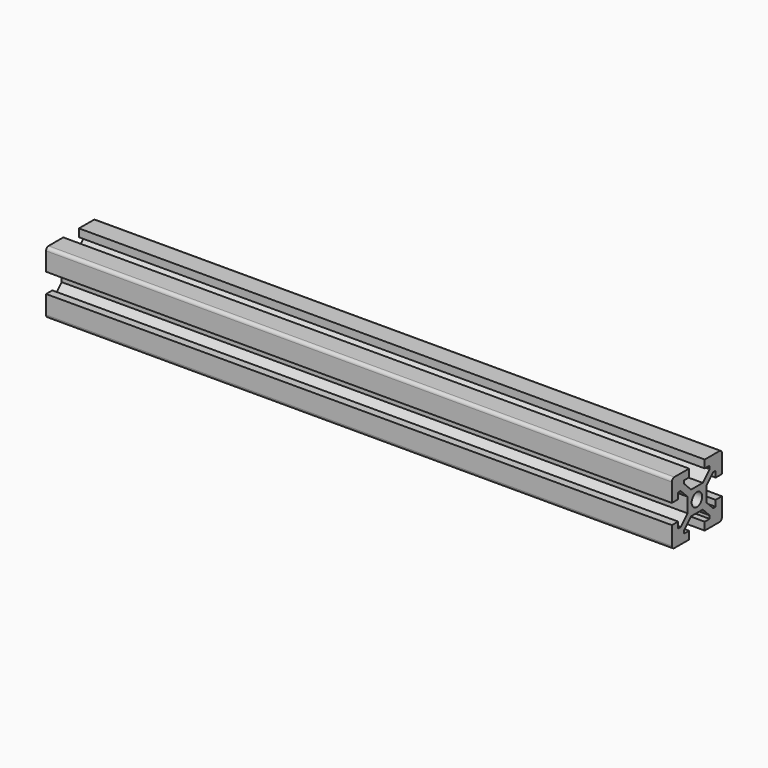
from build123d import *

# Parameters (mm, degrees)
PAD_DEPTH          = 200
POCKET_DEPTH       = 603.981198
POLARPATTERN_COUNT = 4
SKETCH002_R        = 2.1
POCKET001_DEPTH    = 200.001


with BuildPart() as part:
    # Sketch → Pad (new body)
    with BuildSketch(Plane.YZ):
        with BuildLine():
            Line((-9, 10), (9, 10))
            ThreePointArc((10, 9), (9.707107, 9.707107), (9, 10))
            Line((10, 9), (10, -9))
            ThreePointArc((9, -10), (9.707107, -9.707107), (10, -9))
            Line((9, -10), (-9, -10))
            ThreePointArc((-10, -9), (-9.707107, -9.707107), (-9, -10))
            Line((-10, -9), (-10, 9))
            ThreePointArc((-9, 10), (-9.707107, 9.707107), (-10, 9))
        make_face()
    extrude(amount=PAD_DEPTH)

    # Sketch001 (on Face10 of Pad) → Pocket (cut, through all)
    with BuildSketch(Plane.YZ.offset(200)):
        Polygon((-3.125, 10), (3.125, 10), (3.125, 7.5), (5.085786, 7.5), (5.085786, 6.5), (2.335786, 3.75), (-2.335786, 3.75), (-5.085786, 6.5), (-5.085786, 7.5), (-3.125, 7.5), align=None)
    pocket = extrude(amount=-POCKET_DEPTH, mode=Mode.SUBTRACT)

    # PolarPattern: Pocket ×4 about axis
    polarpattern_axis = Axis((200, 0, 0), (1, 0, 0))
    for i in range(1, POLARPATTERN_COUNT):
        add(pocket.rotate(polarpattern_axis, i * 360 / POLARPATTERN_COUNT), mode=Mode.SUBTRACT)

    # Sketch002 (on Face4 of PolarPattern) → Pocket001 (cut, through all)
    with BuildSketch(Plane.YZ.offset(200)):
        Circle(SKETCH002_R)
    extrude(amount=-POCKET001_DEPTH, mode=Mode.SUBTRACT)


solid = part.part
